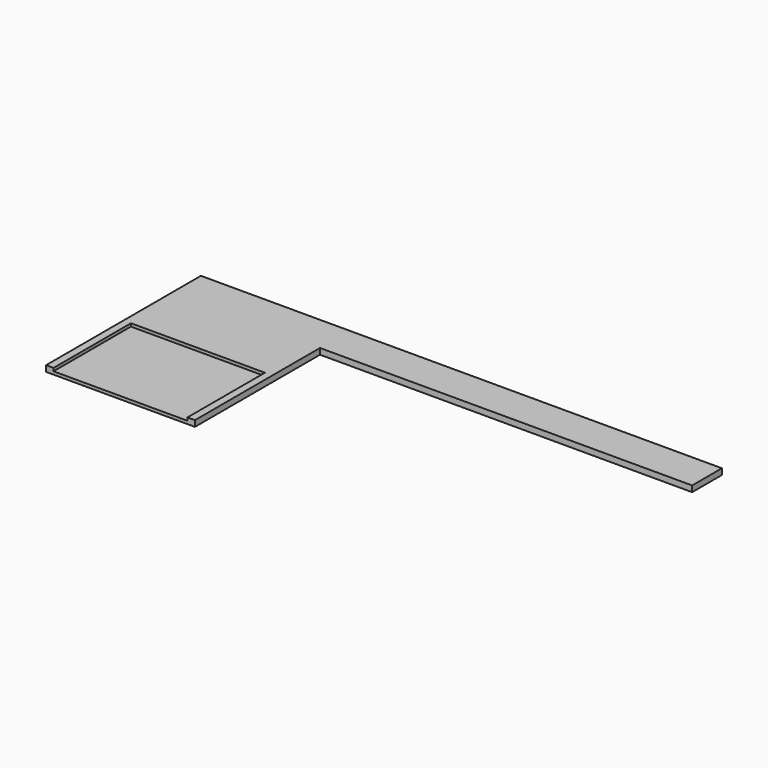
from build123d import *

# Parameters (mm, degrees)
F1_DEPTH = 0.8
F3_DEPTH = 0.8


with BuildPart() as f1:
    # F0 (on Top) → F1 (new body)
    with BuildSketch(Plane.XY):
        Polygon((0, 52), (0, 0), (40, 0), (40, 42), (140, 42), (140, 52), align=None)
    extrude(amount=F1_DEPTH)

    # F2 (on face) → F3 (join)
    with BuildSketch(Plane.XY.offset(0.8)):
        Polygon((0, 0), (2, 0), (2, 26), (38, 26), (38, 0), (40, 0), (40, 42), (140, 42), (140, 52), (0, 52), align=None)
    extrude(amount=F3_DEPTH)


solid = f1.part
